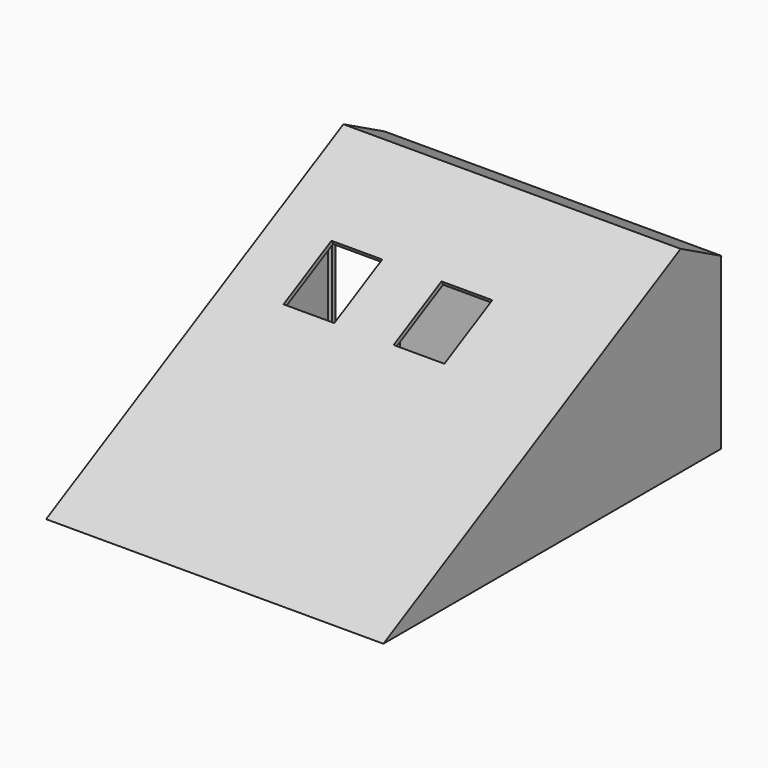
from build123d import *

# Parameters (mm, degrees)
F1_DEPTH  = 2500
F3_DEPTH  = 3984
F4_T      = -50
F5_W      = 800
F5_H      = 1900
F6_DEPTH  = 50
F7_W      = 600
F7_H      = 800
F8_DEPTH  = 50
F10_DEPTH = 3984


with BuildPart() as f1:
    # F0 (on Top) → F1 (new body)
    with BuildSketch(Plane.XY):
        Polygon((0, 2258), (0, 0), (3984, 0), (3984, 3098), (2940, 3098), (2940, 2258), align=None)
    extrude(amount=F1_DEPTH)

    # F2 (on face) → F3 (cut, through all)
    with BuildSketch(Plane.YZ.offset(3984)):
        Polygon((0, 2500), (0, 1000), (1890, 2000), (3098, 2000), (3098, 2500), align=None)
    extrude(amount=-F3_DEPTH, mode=Mode.SUBTRACT)

    # F4
    f4_openings = [f1.faces().sort_by_distance(p)[0] for p in [
        (2122.573598, 1266.590819, 0),
    ]]
    offset(amount=F4_T, openings=f4_openings, kind=Kind.INTERSECTION)

    # F5 (on face) → F6 (cut, through all)
    with BuildSketch(Plane(origin=(0, 2258, 0), x_dir=(-1, 0, 0), z_dir=(0, 1, 0))):
        with Locations((-500, 950)):
            Rectangle(F5_W, F5_H)
    extrude(amount=-F6_DEPTH, mode=Mode.SUBTRACT)

    # F7 (on face) → F8 (cut, through all)
    with BuildSketch(Plane(origin=(0, -413.3767852847, 781.282124188), x_dir=(1, 0, 0), z_dir=(0, -0.4676728299, 0.8839016485))):
        with Locations((1000, 1705.9197753983)):
            Rectangle(F7_W, F7_H)
        with Locations((2300, 1705.9197753983)):
            Rectangle(F7_W, F7_H)
    extrude(amount=-F8_DEPTH, mode=Mode.SUBTRACT)

    # F9 (on face) → F10 (join, through all)
    with BuildSketch(Plane.YZ.offset(3984)):
        Polygon((0, 0), (0, 1000), (-1890, 0), align=None)
        Polygon((2499.2872246901, 2322.3741929577), (1890, 2000), (3108.5832118988, 2000), align=None)
    extrude(amount=-F10_DEPTH)


solid = f1.part
